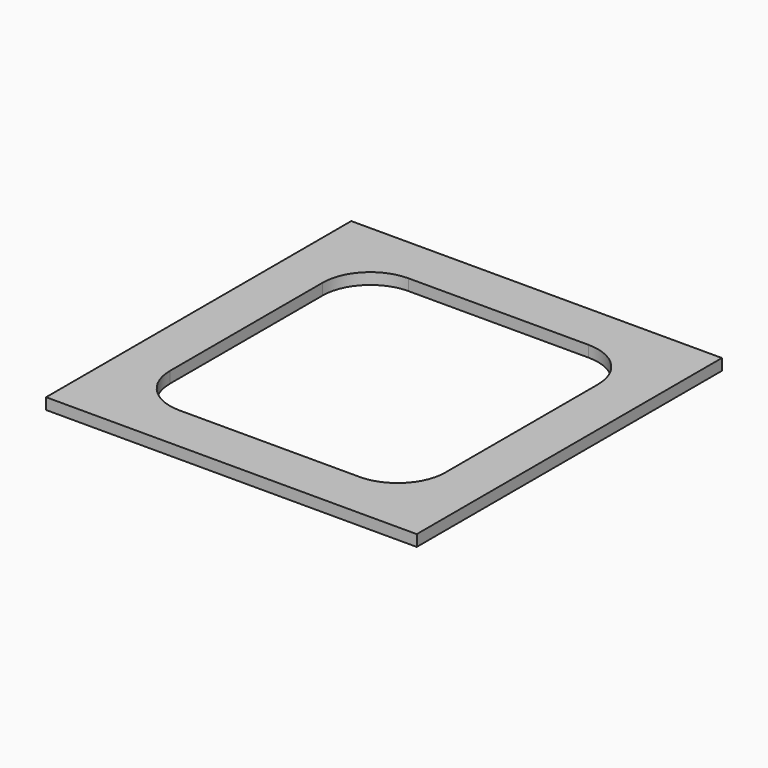
from build123d import *

# Parameters (mm, degrees)
F0_W     = 592.3788
F0_H     = 609.6
F1_DEPTH = 18.034
F2_W     = 439.9788
F2_H     = 457.2
F3_DEPTH = 18.035
F4_R     = 76.2


with BuildPart() as f1:
    # F0 (on Top) → F1 (new body)
    with BuildSketch(Plane.XY):
        with Locations((296.1894, 304.8)):
            Rectangle(F0_W, F0_H)
    extrude(amount=F1_DEPTH)

    # F2 (on face) → F3 (cut, through all)
    with BuildSketch(Plane.XY.offset(18.034)):
        with Locations((296.1894, 304.8)):
            Rectangle(F2_W, F2_H)
    extrude(amount=-F3_DEPTH, mode=Mode.SUBTRACT)

    # F4
    f4_edges = [f1.edges().sort_by_distance(p)[0] for p in [
        (516.1788, 533.4, 9.017),
        (76.2, 533.4, 9.017),
        (76.2, 76.2, 9.017),
        (516.1788, 76.2, 9.017),
    ]]
    fillet(f4_edges, radius=F4_R)


solid = f1.part
